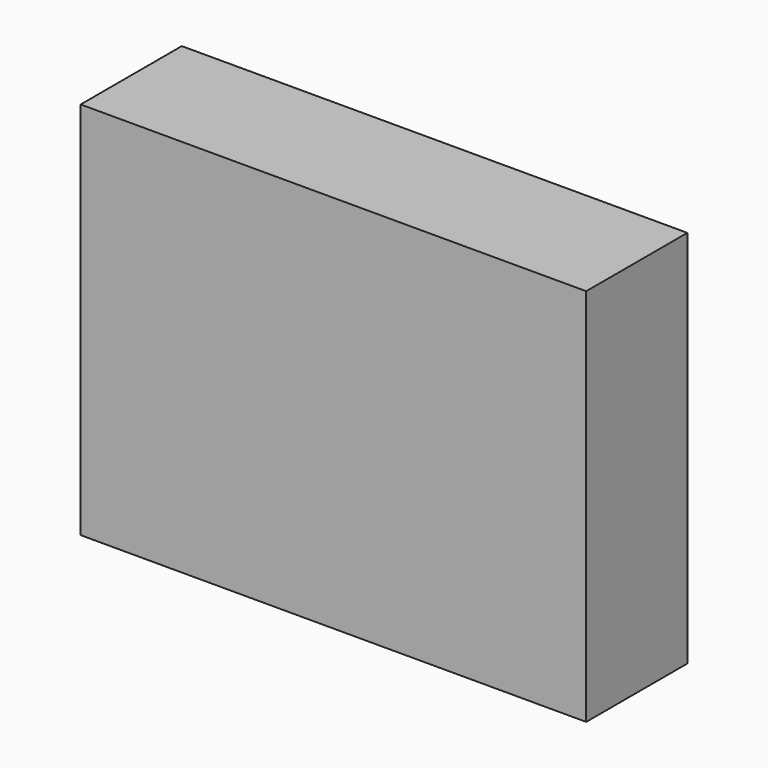
from build123d import *

# Parameters (mm, degrees)
F0_W     = 2438.4
F0_H     = 1219.2
F0_H_2   = 304.8
F1_DEPTH = 609.6
F2_T     = -25.4
F3_W     = 25.4
F3_H     = 323.85
F4_DEPTH = 571.5
F5_R     = 24.257
F6_DEPTH = 2438.4


with BuildPart() as f1:
    # F0 (on Front) → F1 (new body)
    with BuildSketch(Plane.XZ):
        with Locations((-6.99388, 261.559361)):
            Rectangle(F0_W, F0_H)
        with Locations((-6.99388, -500.440639)):
            Rectangle(F0_W, F0_H_2)
        with Locations((-6.99388, -805.240639)):
            Rectangle(F0_W, F0_H_2)
    extrude(amount=F1_DEPTH)

    # F2
    f2_openings = [f1.faces().sort_by_distance(p)[0] for p in [
        (-6.99388, 0, -43.240639),
    ]]
    offset(amount=F2_T, openings=f2_openings)

    # F3 (on face) → F4 (join)
    with BuildSketch(Plane(origin=(0, -584.2, 0), x_dir=(-1, 0, 0), z_dir=(0, 1, 0))):
        Polygon((-408.29612, -589.340639), (-1186.80612, -589.340639), (-1186.80612, -608.390639), (-408.29612, -608.390639), (-382.89612, -608.390639), (396.88388, -608.390639), (422.28388, -608.390639), (1200.79388, -608.390639), (1200.79388, -589.340639), (422.28388, -589.340639), (396.88388, -589.340639), (-382.89612, -589.340639), align=None)
        with Locations((-395.59612, -427.415639)):
            Rectangle(F3_W, F3_H)
        Polygon((-1186.80612, -265.490639), (-408.29612, -265.490639), (-382.89612, -265.490639), (396.88388, -265.490639), (422.28388, -265.490639), (1200.79388, -265.490639), (1200.79388, -246.440639), (-1186.80612, -246.440639), align=None)
        with Locations((-395.59612, -770.315639)):
            Rectangle(F3_W, F3_H)
        with Locations((409.58388, -427.415639)):
            Rectangle(F3_W, F3_H)
        with Locations((409.58388, -770.315639)):
            Rectangle(F3_W, F3_H)
    extrude(amount=F4_DEPTH)

    # F5 (on face) → F6 (join)
    with BuildSketch(Plane.YZ.offset(1212.20612)):
        with Locations((-323.938608, 745.302361)):
            Circle(F5_R)
    extrude(amount=-F6_DEPTH)


solid = f1.part
